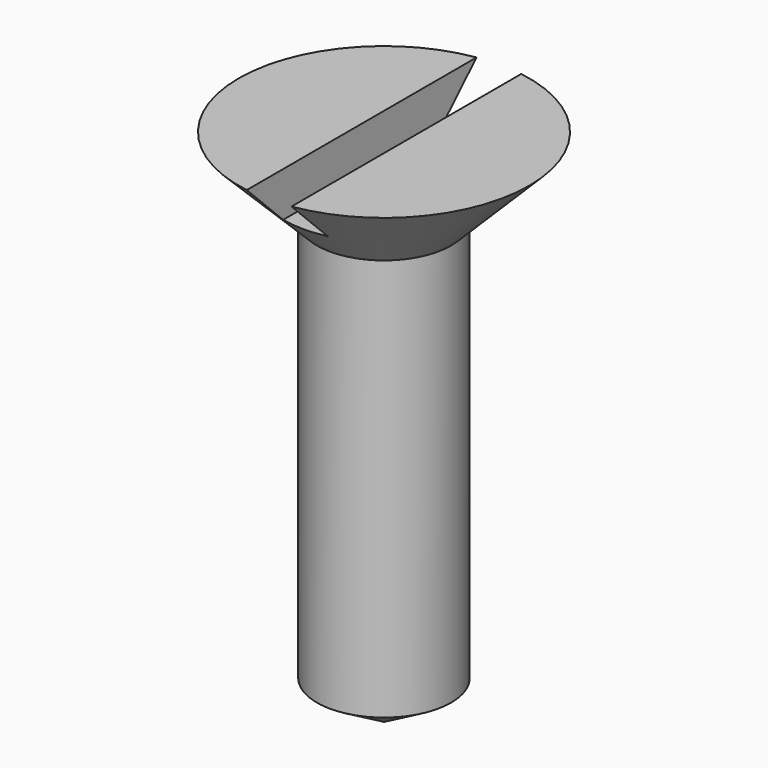
from build123d import *

# Parameters (mm, degrees)
F3_W     = 2
F3_H     = 5.143062
F4_DEPTH = 12.5


with BuildPart() as f2:
    # F0 (on Front) → F2 (revolve)
    with BuildSketch(Plane.XZ):
        Polygon((0, 23.232051), (0, 0), (3, 1.732051), (3, 19.732051), (6.5, 23.232051), align=None)
    revolve(axis=Axis((0, 0, 22.404052), (0, 0, 1)))

    # F3 (on Front) → F4 (cut, symmetric)
    with BuildSketch(Plane.XZ):
        with Locations((0, 23.803582)):
            Rectangle(F3_W, F3_H)
    extrude(amount=F4_DEPTH, both=True, mode=Mode.SUBTRACT)


solid = f2.part
